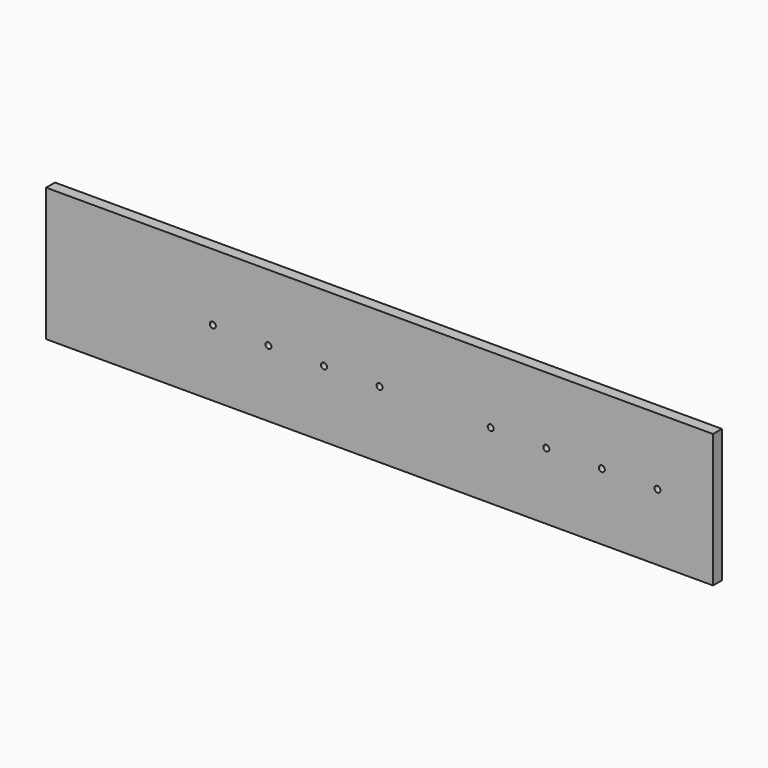
from build123d import *

# Parameters (mm, degrees)
F0_W     = 600
F0_H     = 120
F1_DEPTH = 10
F2_D     = 5.4


with BuildPart() as f1:
    # F0 (on Front) → F1 (new body)
    with BuildSketch(Plane.XZ):
        Rectangle(F0_W, F0_H)
    extrude(amount=F1_DEPTH)

    # F2 (through all)
    with Locations(Plane(origin=(0, 0, 0), x_dir=(1, 0, 0), z_dir=(0, 1, 0))):
        with Locations((250, 0), (200, 0), (150, 0), (100, 0), (0, 0), (0, 0), (-50, 0), (-100, 0), (-150, 0)):
            Hole(F2_D / 2)


solid = f1.part
